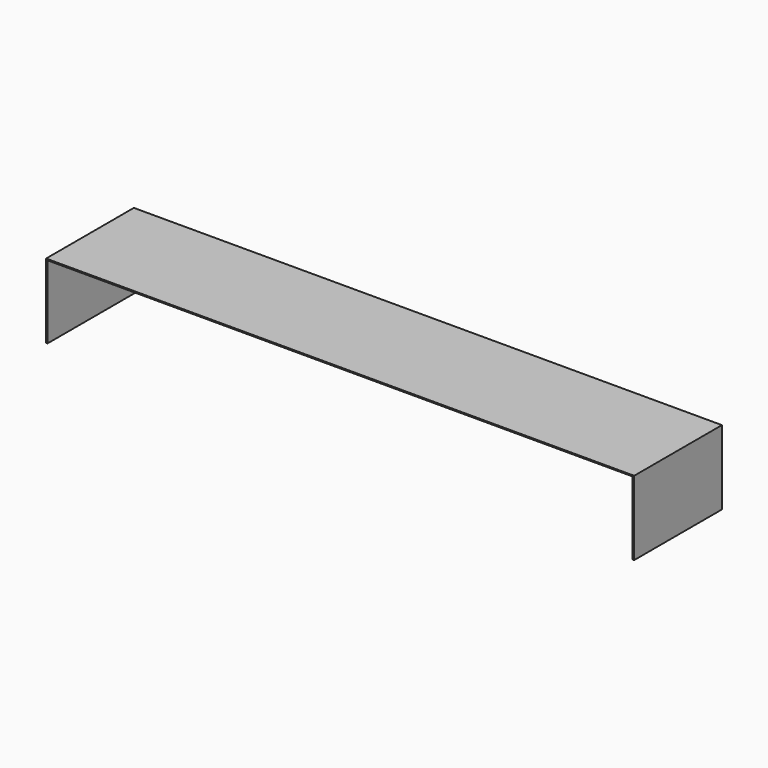
from build123d import *

# Parameters (mm, degrees)
F0_W     = 102.108
F0_H     = 19.05
F1_DEPTH = 0.198437
F2_W     = 0.254
F2_H     = 19.05
F3_DEPTH = 12.7


with BuildPart() as f1:
    # F0 (on Top) → F1 (new body)
    with BuildSketch(Plane.XY):
        with Locations((0, 9.525)):
            Rectangle(F0_W, F0_H)
    extrude(amount=F1_DEPTH)

    # F2 (on face) → F3 (join)
    with BuildSketch(Plane(origin=(0, 0, 0), x_dir=(1, 0, 0), z_dir=(0, 0, -1))):
        with Locations((-50.927, -9.525)):
            Rectangle(F2_W, F2_H)
        with Locations((50.927, -9.525)):
            Rectangle(F2_W, F2_H)
    extrude(amount=F3_DEPTH)


solid = f1.part
